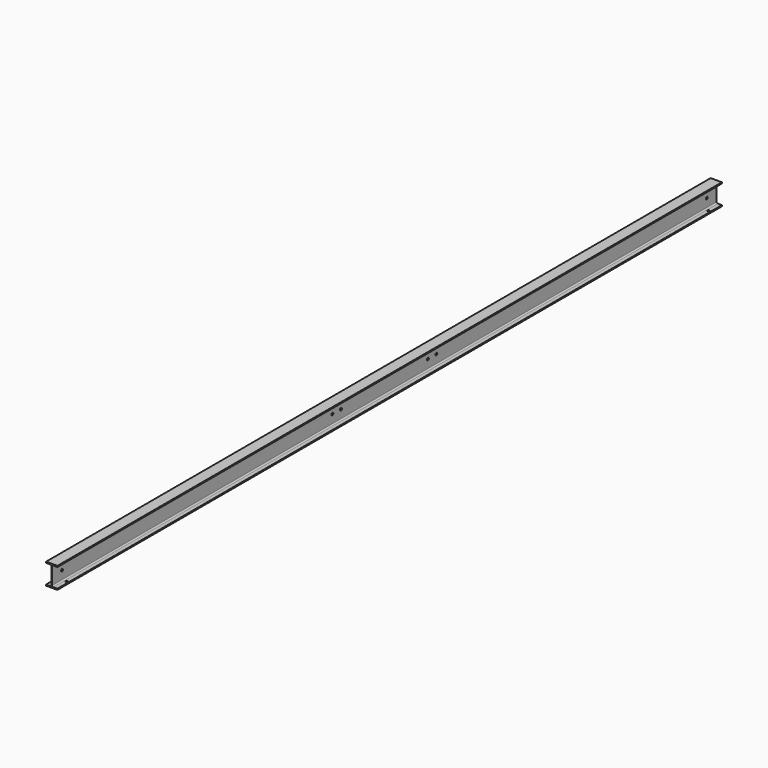
from build123d import *

# Parameters (mm, degrees)
F2_DEPTH = 4700
F3_R     = 6.5
F4_DEPTH = 6.3
F5_R     = 6.5
F6_DEPTH = 34.201


with BuildPart() as f2:
    # F0 (on Front) → F2 (new body)
    with BuildSketch(Plane.XZ):
        with BuildLine():
            Line((-32, 6.3), (-32, 0))
            Line((-32, 0), (32, 0))
            Line((32, 0), (32, 6.3))
            Line((32, 6.3), (9.2, 6.3))
            ThreePointArc((9.2, 6.3), (4.2502525317, 8.3502525317), (2.2, 13.3))
            Line((2.2, 13.3), (2.2, 106.7))
            ThreePointArc((2.2, 106.7), (4.2502525317, 111.6497474683), (9.2, 113.7))
            Line((9.2, 113.7), (32, 113.7))
            Line((32, 113.7), (32, 120))
            Line((32, 120), (-32, 120))
            Line((-32, 120), (-32, 113.7))
            Line((-32, 113.7), (-9.2, 113.7))
            ThreePointArc((-9.2, 113.7), (-4.2502525317, 111.6497474683), (-2.2, 106.7))
            Line((-2.2, 106.7), (-2.2, 13.3))
            ThreePointArc((-2.2, 13.3), (-4.2502525317, 8.3502525317), (-9.2, 6.3))
            Line((-9.2, 6.3), (-32, 6.3))
        make_face()
    extrude(amount=F2_DEPTH)

    # F3 (on face) → F4 (cut, through all)
    with BuildSketch(Plane(origin=(0, 0, 0), x_dir=(1, 0, 0), z_dir=(0, 0, -1))):
        with Locations((21, 80)):
            Circle(F3_R)
        with Locations((-21, 80)):
            Circle(F3_R)
        with Locations((21, 4620)):
            Circle(F3_R)
        with Locations((-21, 4620)):
            Circle(F3_R)
    extrude(amount=-F4_DEPTH, mode=Mode.SUBTRACT)

    # F5 (on face) → F6 (cut, through all)
    with BuildSketch(Plane(origin=(-2.2, 0, 0), x_dir=(0, -1, 0), z_dir=(-1, 0, 0))):
        with Locations((70, 60)):
            Circle(F5_R)
        with Locations((4630, 60)):
            Circle(F5_R)
        with Locations((1982.5, 60)):
            Circle(F5_R)
        with Locations((2042.5, 60)):
            Circle(F5_R)
        with Locations((2717.5, 60)):
            Circle(F5_R)
        with Locations((2657.5, 60)):
            Circle(F5_R)
    extrude(amount=-F6_DEPTH, mode=Mode.SUBTRACT)


solid = f2.part
